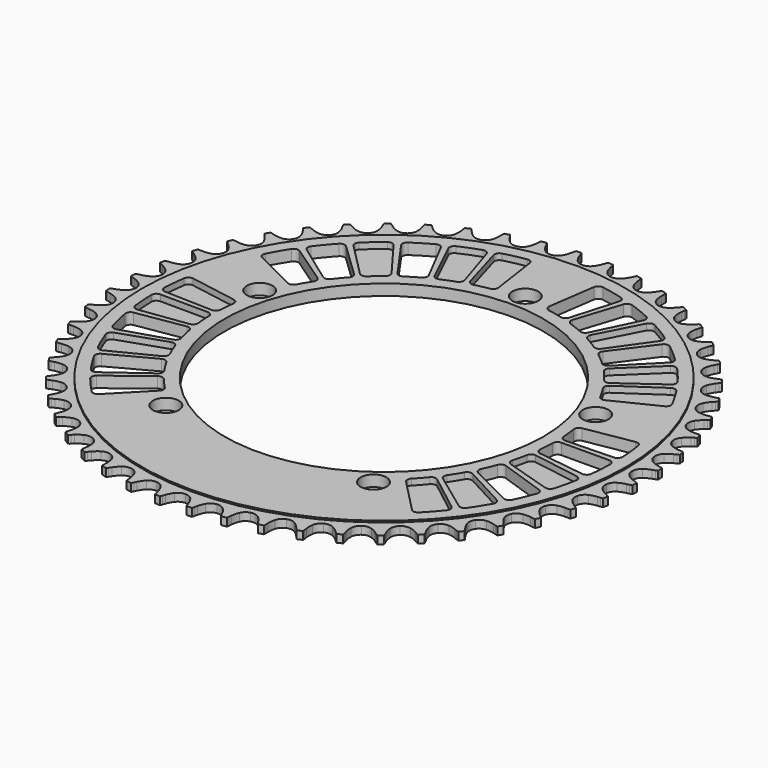
from build123d import *

# Parameters (mm, degrees)
F0_R     = 98.59071
F1_DEPTH = 1.6
F0_R_2   = 5.25
F0_R_3   = 64.999997
F2_DEPTH = 2.25
F4_DEPTH = 4.5
F5_DEPTH = 2.5


with BuildPart() as f1:
    # F0 (on Top) → F1 (new body, symmetric)
    with BuildSketch(Plane.XY):
        with BuildLine():
            ThreePointArc((0, 101.090736), (-1.818052, 101.525921), (-3.242005, 102.737141))
            ThreePointArc((-3.242005, 102.737141), (-4.059635, 104.032944), (-4.677869, 105.434875))
            Line((-4.677869, 105.434875), (-5.064369, 106.542837))
            ThreePointArc((-5.064369, 106.542837), (-5.237896, 106.986478), (-5.443927, 107.415989))
            ThreePointArc((-5.443927, 107.415989), (-6.49394, 107.357625), (-7.543332, 107.288998))
            ThreePointArc((-7.543332, 107.288998), (-7.696089, 106.837784), (-7.814875, 106.376462))
            Line((-7.814875, 106.376462), (-8.065008, 105.229991))
            ThreePointArc((-8.065008, 105.229991), (-8.50975, 103.763762), (-9.165226, 102.378852))
            ThreePointArc((-9.165226, 102.378852), (-10.432801, 101.004825), (-12.185142, 100.353671))
            ThreePointArc((-12.185142, 100.353671), (-14.042394, 100.566541), (-15.601962, 101.597291))
            ThreePointArc((-15.601962, 101.597291), (-16.569821, 102.785092), (-17.352532, 104.102281))
            Line((-17.352532, 104.102281), (-17.869764, 105.155578))
            ThreePointArc((-17.869764, 105.155578), (-18.095501, 105.575067), (-18.351801, 105.976612))
            ThreePointArc((-18.351801, 105.976612), (-19.387124, 105.792109), (-20.420593, 105.597492))
            ThreePointArc((-20.420593, 105.597492), (-20.517847, 105.131156), (-20.580162, 104.658879))
            Line((-20.580162, 104.658879), (-20.690279, 103.490616))
            ThreePointArc((-20.690279, 103.490616), (-20.955044, 101.98147), (-21.438808, 100.527649))
            ThreePointArc((-21.438808, 100.527649), (-22.531521, 99.010851), (-24.192597, 98.153223))
            ThreePointArc((-24.192597, 98.153223), (-26.061966, 98.140674), (-27.734406, 98.975924))
            ThreePointArc((-27.734406, 98.975924), (-28.838382, 100.038402), (-29.774155, 101.251642))
            Line((-29.774155, 101.251642), (-30.414578, 102.234913))
            ThreePointArc((-30.414578, 102.234913), (-30.689233, 102.624134), (-30.992065, 102.991858))
            ThreePointArc((-30.992065, 102.991858), (-31.997599, 102.683906), (-33.000075, 102.366137))
            ThreePointArc((-33.000075, 102.366137), (-33.04041, 101.891478), (-33.045343, 101.415133))
            Line((-33.045343, 101.415133), (-33.013839, 100.242116))
            ThreePointArc((-33.013839, 100.242116), (-33.094766, 98.712059), (-33.399765, 97.210527))
            ThreePointArc((-33.399765, 97.210527), (-34.30168, 95.573075), (-35.847269, 94.52148))
            ThreePointArc((-35.847269, 94.52148), (-37.701496, 94.283695), (-39.46242, 94.911265))
            ThreePointArc((-39.46242, 94.911265), (-40.686415, 95.832926), (-41.761605, 96.924525))
            Line((-41.761605, 96.924525), (-42.515878, 97.823433))
            ThreePointArc((-42.515878, 97.823433), (-42.835446, 98.176711), (-43.180394, 98.505251))
            ThreePointArc((-43.180394, 98.505251), (-44.141478, 98.078341), (-45.098341, 97.642053))
            ThreePointArc((-45.098341, 97.642053), (-45.081168, 97.165993), (-45.028649, 96.692527))
            Line((-45.028649, 96.692527), (-44.855982, 95.531859))
            ThreePointArc((-44.855982, 95.531859), (-44.751892, 94.003204), (-44.873677, 92.475856))
            ThreePointArc((-44.873677, 92.475856), (-45.571643, 90.74163), (-46.979208, 89.511402))
            ThreePointArc((-46.979208, 89.511402), (-48.791253, 89.051848), (-50.614983, 89.462586))
            ThreePointArc((-50.614983, 89.462586), (-51.941148, 90.229991), (-53.140076, 91.184031))
            Line((-53.140076, 91.184031), (-53.997202, 91.985467))
            ThreePointArc((-53.997202, 91.985467), (-54.357022, 92.297649), (-54.739057, 92.582216))
            ThreePointArc((-54.739057, 92.582216), (-55.641674, 92.042572), (-56.538973, 91.494128))
            ThreePointArc((-56.538973, 91.494128), (-56.464542, 91.023609), (-56.355336, 90.559926))
            Line((-56.355336, 90.559926), (-56.044025, 89.428533))
            ThreePointArc((-56.044025, 89.428533), (-55.756434, 87.92357), (-55.69323, 86.392679))
            ThreePointArc((-55.69323, 86.392679), (-56.177069, 84.586966), (-57.426084, 83.196045))
            ThreePointArc((-57.426084, 83.196045), (-59.169524, 82.521424), (-61.029466, 82.709341))
            ThreePointArc((-61.029466, 82.709341), (-62.438462, 83.311299), (-63.743646, 84.113868))
            Line((-63.743646, 84.113868), (-64.691124, 84.806146))
            ThreePointArc((-64.691124, 84.806146), (-65.08595, 85.072681), (-65.4995, 85.309123))
            ThreePointArc((-65.4995, 85.309123), (-66.33049, 84.664615), (-67.155138, 84.012013))
            ThreePointArc((-67.155138, 84.012013), (-67.024536, 83.553896), (-66.860234, 83.106757))
            Line((-66.860234, 83.106757), (-66.414819, 82.021138))
            ThreePointArc((-66.414819, 82.021138), (-65.947922, 80.561813), (-65.70065, 79.049702))
            ThreePointArc((-65.70065, 79.049702), (-65.963308, 77.198835), (-67.035558, 75.667503))
            ThreePointArc((-67.035558, 75.667503), (-68.68497, 74.787652), (-70.554002, 74.750007))
            ThreePointArc((-70.554002, 74.750007), (-72.025283, 75.177741), (-73.417689, 75.817136))
            Line((-73.417689, 75.817136), (-74.441704, 76.390161))
            ThreePointArc((-74.441704, 76.390161), (-74.865779, 76.607161), (-75.304814, 76.792031))
            ThreePointArc((-75.304814, 76.792031), (-76.052058, 76.052058), (-76.792031, 75.304814))
            ThreePointArc((-76.792031, 75.304814), (-76.607161, 74.865779), (-76.390161, 74.441704))
            Line((-76.390161, 74.441704), (-75.817136, 73.417689))
            ThreePointArc((-75.817136, 73.417689), (-75.177741, 72.025283), (-74.750007, 70.554002))
            ThreePointArc((-74.750007, 70.554002), (-74.787652, 68.68497), (-75.667503, 67.035558))
            ThreePointArc((-75.667503, 67.035558), (-77.198835, 65.963308), (-79.049702, 65.70065))
            ThreePointArc((-79.049702, 65.70065), (-80.561813, 65.947922), (-82.021138, 66.414819))
            Line((-82.021138, 66.414819), (-83.106757, 66.860234))
            ThreePointArc((-83.106757, 66.860234), (-83.553896, 67.024536), (-84.012013, 67.155138))
            ThreePointArc((-84.012013, 67.155138), (-84.664615, 66.33049), (-85.309123, 65.4995))
            ThreePointArc((-85.309123, 65.4995), (-85.072681, 65.08595), (-84.806146, 64.691124))
            Line((-84.806146, 64.691124), (-84.113868, 63.743646))
            ThreePointArc((-84.113868, 63.743646), (-83.311299, 62.438462), (-82.709341, 61.029466))
            ThreePointArc((-82.709341, 61.029466), (-82.521424, 59.169524), (-83.196045, 57.426084))
            ThreePointArc((-83.196045, 57.426084), (-84.586966, 56.177069), (-86.392679, 55.69323))
            ThreePointArc((-86.392679, 55.69323), (-87.92357, 55.756434), (-89.428533, 56.044025))
            Line((-89.428533, 56.044025), (-90.559926, 56.355336))
            ThreePointArc((-90.559926, 56.355336), (-91.023609, 56.464542), (-91.494128, 56.538973))
            ThreePointArc((-91.494128, 56.538973), (-92.042572, 55.641674), (-92.582216, 54.739057))
            ThreePointArc((-92.582216, 54.739057), (-92.297649, 54.357022), (-91.985467, 53.997202))
            Line((-91.985467, 53.997202), (-91.184031, 53.140076))
            ThreePointArc((-91.184031, 53.140076), (-90.229991, 51.941148), (-89.462586, 50.614983))
            ThreePointArc((-89.462586, 50.614983), (-89.051848, 48.791253), (-89.511402, 46.979208))
            ThreePointArc((-89.511402, 46.979208), (-90.74163, 45.571643), (-92.475856, 44.873677))
            ThreePointArc((-92.475856, 44.873677), (-94.003204, 44.751892), (-95.531859, 44.855982))
            Line((-95.531859, 44.855982), (-96.692527, 45.028649))
            ThreePointArc((-96.692527, 45.028649), (-97.165993, 45.081168), (-97.642053, 45.098341))
            ThreePointArc((-97.642053, 45.098341), (-98.078341, 44.141478), (-98.505251, 43.180394))
            ThreePointArc((-98.505251, 43.180394), (-98.176711, 42.835446), (-97.823433, 42.515878))
            Line((-97.823433, 42.515878), (-96.924525, 41.761605))
            ThreePointArc((-96.924525, 41.761605), (-95.832926, 40.686415), (-94.911265, 39.46242))
            ThreePointArc((-94.911265, 39.46242), (-94.283695, 37.701496), (-94.52148, 35.847269))
            ThreePointArc((-94.52148, 35.847269), (-95.573075, 34.30168), (-97.210527, 33.399765))
            ThreePointArc((-97.210527, 33.399765), (-98.712059, 33.094766), (-100.242116, 33.013839))
            Line((-100.242116, 33.013839), (-101.415133, 33.045343))
            ThreePointArc((-101.415133, 33.045343), (-101.891478, 33.04041), (-102.366137, 33.000075))
            ThreePointArc((-102.366137, 33.000075), (-102.683906, 31.997599), (-102.991858, 30.992065))
            ThreePointArc((-102.991858, 30.992065), (-102.624134, 30.689233), (-102.234913, 30.414578))
            Line((-102.234913, 30.414578), (-101.251642, 29.774155))
            ThreePointArc((-101.251642, 29.774155), (-100.038402, 28.838382), (-98.975924, 27.734406))
            ThreePointArc((-98.975924, 27.734406), (-98.140674, 26.061966), (-98.153223, 24.192597))
            ThreePointArc((-98.153223, 24.192597), (-99.010851, 22.531521), (-100.527649, 21.438808))
            ThreePointArc((-100.527649, 21.438808), (-101.98147, 20.955044), (-103.490616, 20.690279))
            Line((-103.490616, 20.690279), (-104.658879, 20.580162))
            ThreePointArc((-104.658879, 20.580162), (-105.131156, 20.517847), (-105.597492, 20.420593))
            ThreePointArc((-105.597492, 20.420593), (-105.792109, 19.387124), (-105.976612, 18.351801))
            ThreePointArc((-105.976612, 18.351801), (-105.575067, 18.095501), (-105.155578, 17.869764))
            Line((-105.155578, 17.869764), (-104.102281, 17.352532))
            ThreePointArc((-104.102281, 17.352532), (-102.785092, 16.569821), (-101.597291, 15.601962))
            ThreePointArc((-101.597291, 15.601962), (-100.566541, 14.042394), (-100.353671, 12.185142))
            ThreePointArc((-100.353671, 12.185142), (-101.004825, 10.432801), (-102.378852, 9.165226))
            ThreePointArc((-102.378852, 9.165226), (-103.763762, 8.50975), (-105.229991, 8.065008))
            Line((-105.229991, 8.065008), (-106.376462, 7.814875))
            ThreePointArc((-106.376462, 7.814875), (-106.837784, 7.696089), (-107.288998, 7.543332))
            ThreePointArc((-107.288998, 7.543332), (-107.357625, 6.49394), (-107.415989, 5.443927))
            ThreePointArc((-107.415989, 5.443927), (-106.986478, 5.237896), (-106.542837, 5.064369))
            Line((-106.542837, 5.064369), (-105.434875, 4.677869))
            ThreePointArc((-105.434875, 4.677869), (-104.032944, 4.059635), (-102.737141, 3.242005))
            ThreePointArc((-102.737141, 3.242005), (-101.525921, 1.818052), (-101.090736, 0))
            ThreePointArc((-101.090736, 0), (-101.525921, -1.818052), (-102.737141, -3.242005))
            ThreePointArc((-102.737141, -3.242005), (-104.032944, -4.059635), (-105.434875, -4.677869))
            Line((-105.434875, -4.677869), (-106.542837, -5.064369))
            ThreePointArc((-106.542837, -5.064369), (-106.986478, -5.237896), (-107.415989, -5.443927))
            ThreePointArc((-107.415989, -5.443927), (-107.357625, -6.49394), (-107.288998, -7.543332))
            ThreePointArc((-107.288998, -7.543332), (-106.837784, -7.696089), (-106.376462, -7.814875))
            Line((-106.376462, -7.814875), (-105.229991, -8.065008))
            ThreePointArc((-105.229991, -8.065008), (-103.763762, -8.50975), (-102.378852, -9.165226))
            ThreePointArc((-102.378852, -9.165226), (-101.004825, -10.432801), (-100.353671, -12.185142))
            ThreePointArc((-100.353671, -12.185142), (-100.566541, -14.042394), (-101.597291, -15.601962))
            ThreePointArc((-101.597291, -15.601962), (-102.785092, -16.569821), (-104.102281, -17.352532))
            Line((-104.102281, -17.352532), (-105.155578, -17.869764))
            ThreePointArc((-105.155578, -17.869764), (-105.575067, -18.095501), (-105.976612, -18.351801))
            ThreePointArc((-105.976612, -18.351801), (-105.792109, -19.387124), (-105.597492, -20.420593))
            ThreePointArc((-105.597492, -20.420593), (-105.131156, -20.517847), (-104.658879, -20.580162))
            Line((-104.658879, -20.580162), (-103.490616, -20.690279))
            ThreePointArc((-103.490616, -20.690279), (-101.98147, -20.955044), (-100.527649, -21.438808))
            ThreePointArc((-100.527649, -21.438808), (-99.010851, -22.531521), (-98.153223, -24.192597))
            ThreePointArc((-98.153223, -24.192597), (-98.140674, -26.061966), (-98.975924, -27.734406))
            ThreePointArc((-98.975924, -27.734406), (-100.038402, -28.838382), (-101.251642, -29.774155))
            Line((-101.251642, -29.774155), (-102.234913, -30.414578))
            ThreePointArc((-102.234913, -30.414578), (-102.624134, -30.689233), (-102.991858, -30.992065))
            ThreePointArc((-102.991858, -30.992065), (-102.683906, -31.997599), (-102.366137, -33.000075))
            ThreePointArc((-102.366137, -33.000075), (-101.891478, -33.04041), (-101.415133, -33.045343))
            Line((-101.415133, -33.045343), (-100.242116, -33.013839))
            ThreePointArc((-100.242116, -33.013839), (-98.712059, -33.094766), (-97.210527, -33.399765))
            ThreePointArc((-97.210527, -33.399765), (-95.573075, -34.30168), (-94.52148, -35.847269))
            ThreePointArc((-94.52148, -35.847269), (-94.283695, -37.701496), (-94.911265, -39.46242))
            ThreePointArc((-94.911265, -39.46242), (-95.832926, -40.686415), (-96.924525, -41.761605))
            Line((-96.924525, -41.761605), (-97.823433, -42.515878))
            ThreePointArc((-97.823433, -42.515878), (-98.176711, -42.835446), (-98.505251, -43.180394))
            ThreePointArc((-98.505251, -43.180394), (-98.078341, -44.141478), (-97.642053, -45.098341))
            ThreePointArc((-97.642053, -45.098341), (-97.165993, -45.081168), (-96.692527, -45.028649))
            Line((-96.692527, -45.028649), (-95.531859, -44.855982))
            ThreePointArc((-95.531859, -44.855982), (-94.003204, -44.751892), (-92.475856, -44.873677))
            ThreePointArc((-92.475856, -44.873677), (-90.74163, -45.571643), (-89.511402, -46.979208))
            ThreePointArc((-89.511402, -46.979208), (-89.051848, -48.791253), (-89.462586, -50.614983))
            ThreePointArc((-89.462586, -50.614983), (-90.229991, -51.941148), (-91.184031, -53.140076))
            Line((-91.184031, -53.140076), (-91.985467, -53.997202))
            ThreePointArc((-91.985467, -53.997202), (-92.297649, -54.357022), (-92.582216, -54.739057))
            ThreePointArc((-92.582216, -54.739057), (-92.042572, -55.641674), (-91.494128, -56.538973))
            ThreePointArc((-91.494128, -56.538973), (-91.023609, -56.464542), (-90.559926, -56.355336))
            Line((-90.559926, -56.355336), (-89.428533, -56.044025))
            ThreePointArc((-89.428533, -56.044025), (-87.92357, -55.756434), (-86.392679, -55.69323))
            ThreePointArc((-86.392679, -55.69323), (-84.586966, -56.177069), (-83.196045, -57.426084))
            ThreePointArc((-83.196045, -57.426084), (-82.521424, -59.169524), (-82.709341, -61.029466))
            ThreePointArc((-82.709341, -61.029466), (-83.311299, -62.438462), (-84.113868, -63.743646))
            Line((-84.113868, -63.743646), (-84.806146, -64.691124))
            ThreePointArc((-84.806146, -64.691124), (-85.072681, -65.08595), (-85.309123, -65.4995))
            ThreePointArc((-85.309123, -65.4995), (-84.664615, -66.33049), (-84.012013, -67.155138))
            ThreePointArc((-84.012013, -67.155138), (-83.553896, -67.024536), (-83.106757, -66.860234))
            Line((-83.106757, -66.860234), (-82.021138, -66.414819))
            ThreePointArc((-82.021138, -66.414819), (-80.561813, -65.947922), (-79.049702, -65.70065))
            ThreePointArc((-79.049702, -65.70065), (-77.198835, -65.963308), (-75.667503, -67.035558))
            ThreePointArc((-75.667503, -67.035558), (-74.787652, -68.68497), (-74.750007, -70.554002))
            ThreePointArc((-74.750007, -70.554002), (-75.177741, -72.025283), (-75.817136, -73.417689))
            Line((-75.817136, -73.417689), (-76.390161, -74.441704))
            ThreePointArc((-76.390161, -74.441704), (-76.607161, -74.865779), (-76.792031, -75.304814))
            ThreePointArc((-76.792031, -75.304814), (-76.052058, -76.052058), (-75.304814, -76.792031))
            ThreePointArc((-75.304814, -76.792031), (-74.865779, -76.607161), (-74.441704, -76.390161))
            Line((-74.441704, -76.390161), (-73.417689, -75.817136))
            ThreePointArc((-73.417689, -75.817136), (-72.025283, -75.177741), (-70.554002, -74.750007))
            ThreePointArc((-70.554002, -74.750007), (-68.68497, -74.787652), (-67.035558, -75.667503))
            ThreePointArc((-67.035558, -75.667503), (-65.963308, -77.198835), (-65.70065, -79.049702))
            ThreePointArc((-65.70065, -79.049702), (-65.947922, -80.561813), (-66.414819, -82.021138))
            Line((-66.414819, -82.021138), (-66.860234, -83.106757))
            ThreePointArc((-66.860234, -83.106757), (-67.024536, -83.553896), (-67.155138, -84.012013))
            ThreePointArc((-67.155138, -84.012013), (-66.33049, -84.664615), (-65.4995, -85.309123))
            ThreePointArc((-65.4995, -85.309123), (-65.08595, -85.072681), (-64.691124, -84.806146))
            Line((-64.691124, -84.806146), (-63.743646, -84.113868))
            ThreePointArc((-63.743646, -84.113868), (-62.438462, -83.311299), (-61.029466, -82.709341))
            ThreePointArc((-61.029466, -82.709341), (-59.169524, -82.521424), (-57.426084, -83.196045))
            ThreePointArc((-57.426084, -83.196045), (-56.177069, -84.586966), (-55.69323, -86.392679))
            ThreePointArc((-55.69323, -86.392679), (-55.756434, -87.92357), (-56.044025, -89.428533))
            Line((-56.044025, -89.428533), (-56.355336, -90.559926))
            ThreePointArc((-56.355336, -90.559926), (-56.464542, -91.023609), (-56.538973, -91.494128))
            ThreePointArc((-56.538973, -91.494128), (-55.641674, -92.042572), (-54.739057, -92.582216))
            ThreePointArc((-54.739057, -92.582216), (-54.357022, -92.297649), (-53.997202, -91.985467))
            Line((-53.997202, -91.985467), (-53.140076, -91.184031))
            ThreePointArc((-53.140076, -91.184031), (-51.941148, -90.229991), (-50.614983, -89.462586))
            ThreePointArc((-50.614983, -89.462586), (-48.791253, -89.051848), (-46.979208, -89.511402))
            ThreePointArc((-46.979208, -89.511402), (-45.571643, -90.74163), (-44.873677, -92.475856))
            ThreePointArc((-44.873677, -92.475856), (-44.751892, -94.003204), (-44.855982, -95.531859))
            Line((-44.855982, -95.531859), (-45.028649, -96.692527))
            ThreePointArc((-45.028649, -96.692527), (-45.081168, -97.165993), (-45.098341, -97.642053))
            ThreePointArc((-45.098341, -97.642053), (-44.141478, -98.078341), (-43.180394, -98.505251))
            ThreePointArc((-43.180394, -98.505251), (-42.835446, -98.176711), (-42.515878, -97.823433))
            Line((-42.515878, -97.823433), (-41.761605, -96.924525))
            ThreePointArc((-41.761605, -96.924525), (-40.686415, -95.832926), (-39.46242, -94.911265))
            ThreePointArc((-39.46242, -94.911265), (-37.701496, -94.283695), (-35.847269, -94.52148))
            ThreePointArc((-35.847269, -94.52148), (-34.30168, -95.573075), (-33.399765, -97.210527))
            ThreePointArc((-33.399765, -97.210527), (-33.094766, -98.712059), (-33.013839, -100.242116))
            Line((-33.013839, -100.242116), (-33.045343, -101.415133))
            ThreePointArc((-33.045343, -101.415133), (-33.04041, -101.891478), (-33.000075, -102.366137))
            ThreePointArc((-33.000075, -102.366137), (-31.997599, -102.683906), (-30.992065, -102.991858))
            ThreePointArc((-30.992065, -102.991858), (-30.689233, -102.624134), (-30.414578, -102.234913))
            Line((-30.414578, -102.234913), (-29.774155, -101.251642))
            ThreePointArc((-29.774155, -101.251642), (-28.838382, -100.038402), (-27.734406, -98.975924))
            ThreePointArc((-27.734406, -98.975924), (-26.061966, -98.140674), (-24.192597, -98.153223))
            ThreePointArc((-24.192597, -98.153223), (-22.531521, -99.010851), (-21.438808, -100.527649))
            ThreePointArc((-21.438808, -100.527649), (-20.955044, -101.98147), (-20.690279, -103.490616))
            Line((-20.690279, -103.490616), (-20.580162, -104.658879))
            ThreePointArc((-20.580162, -104.658879), (-20.517847, -105.131156), (-20.420593, -105.597492))
            ThreePointArc((-20.420593, -105.597492), (-19.387124, -105.792109), (-18.351801, -105.976612))
            ThreePointArc((-18.351801, -105.976612), (-18.095501, -105.575067), (-17.869764, -105.155578))
            Line((-17.869764, -105.155578), (-17.352532, -104.102281))
            ThreePointArc((-17.352532, -104.102281), (-16.569821, -102.785092), (-15.601962, -101.597291))
            ThreePointArc((-15.601962, -101.597291), (-14.042394, -100.566541), (-12.185142, -100.353671))
            ThreePointArc((-12.185142, -100.353671), (-10.432801, -101.004825), (-9.165226, -102.378852))
            ThreePointArc((-9.165226, -102.378852), (-8.50975, -103.763762), (-8.065008, -105.229991))
            Line((-8.065008, -105.229991), (-7.814875, -106.376462))
            ThreePointArc((-7.814875, -106.376462), (-7.696089, -106.837784), (-7.543332, -107.288998))
            ThreePointArc((-7.543332, -107.288998), (-6.49394, -107.357625), (-5.443927, -107.415989))
            ThreePointArc((-5.443927, -107.415989), (-5.237896, -106.986478), (-5.064369, -106.542837))
            Line((-5.064369, -106.542837), (-4.677869, -105.434875))
            ThreePointArc((-4.677869, -105.434875), (-4.059635, -104.032944), (-3.242005, -102.737141))
            ThreePointArc((-3.242005, -102.737141), (-1.818052, -101.525921), (0, -101.090736))
            ThreePointArc((0, -101.090736), (1.818052, -101.525921), (3.242005, -102.737141))
            ThreePointArc((3.242005, -102.737141), (4.059635, -104.032944), (4.677869, -105.434875))
            Line((4.677869, -105.434875), (5.064369, -106.542837))
            ThreePointArc((5.064369, -106.542837), (5.237896, -106.986478), (5.443927, -107.415989))
            ThreePointArc((5.443927, -107.415989), (6.49394, -107.357625), (7.543332, -107.288998))
            ThreePointArc((7.543332, -107.288998), (7.696089, -106.837784), (7.814875, -106.376462))
            Line((7.814875, -106.376462), (8.065008, -105.229991))
            ThreePointArc((8.065008, -105.229991), (8.50975, -103.763762), (9.165226, -102.378852))
            ThreePointArc((9.165226, -102.378852), (10.432801, -101.004825), (12.185142, -100.353671))
            ThreePointArc((12.185142, -100.353671), (14.042394, -100.566541), (15.601962, -101.597291))
            ThreePointArc((15.601962, -101.597291), (16.569821, -102.785092), (17.352532, -104.102281))
            Line((17.352532, -104.102281), (17.869764, -105.155578))
            ThreePointArc((17.869764, -105.155578), (18.095501, -105.575067), (18.351801, -105.976612))
            ThreePointArc((18.351801, -105.976612), (19.387124, -105.792109), (20.420593, -105.597492))
            ThreePointArc((20.420593, -105.597492), (20.517847, -105.131156), (20.580162, -104.658879))
            Line((20.580162, -104.658879), (20.690279, -103.490616))
            ThreePointArc((20.690279, -103.490616), (20.955044, -101.98147), (21.438808, -100.527649))
            ThreePointArc((21.438808, -100.527649), (22.531521, -99.010851), (24.192597, -98.153223))
            ThreePointArc((24.192597, -98.153223), (26.061966, -98.140674), (27.734406, -98.975924))
            ThreePointArc((27.734406, -98.975924), (28.838382, -100.038402), (29.774155, -101.251642))
            Line((29.774155, -101.251642), (30.414578, -102.234913))
            ThreePointArc((30.414578, -102.234913), (30.689233, -102.624134), (30.992065, -102.991858))
            ThreePointArc((30.992065, -102.991858), (31.997599, -102.683906), (33.000075, -102.366137))
            ThreePointArc((33.000075, -102.366137), (33.04041, -101.891478), (33.045343, -101.415133))
            Line((33.045343, -101.415133), (33.013839, -100.242116))
            ThreePointArc((33.013839, -100.242116), (33.094766, -98.712059), (33.399765, -97.210527))
            ThreePointArc((33.399765, -97.210527), (34.30168, -95.573075), (35.847269, -94.52148))
            ThreePointArc((35.847269, -94.52148), (37.701496, -94.283695), (39.46242, -94.911265))
            ThreePointArc((39.46242, -94.911265), (40.686415, -95.832926), (41.761605, -96.924525))
            Line((41.761605, -96.924525), (42.515878, -97.823433))
            ThreePointArc((42.515878, -97.823433), (42.835446, -98.176711), (43.180394, -98.505251))
            ThreePointArc((43.180394, -98.505251), (44.141478, -98.078341), (45.098341, -97.642053))
            ThreePointArc((45.098341, -97.642053), (45.081168, -97.165993), (45.028649, -96.692527))
            Line((45.028649, -96.692527), (44.855982, -95.531859))
            ThreePointArc((44.855982, -95.531859), (44.751892, -94.003204), (44.873677, -92.475856))
            ThreePointArc((44.873677, -92.475856), (45.571643, -90.74163), (46.979208, -89.511402))
            ThreePointArc((46.979208, -89.511402), (48.791253, -89.051848), (50.614983, -89.462586))
            ThreePointArc((50.614983, -89.462586), (51.941148, -90.229991), (53.140076, -91.184031))
            Line((53.140076, -91.184031), (53.997202, -91.985467))
            ThreePointArc((53.997202, -91.985467), (54.357022, -92.297649), (54.739057, -92.582216))
            ThreePointArc((54.739057, -92.582216), (55.641674, -92.042572), (56.538973, -91.494128))
            ThreePointArc((56.538973, -91.494128), (56.464542, -91.023609), (56.355336, -90.559926))
            Line((56.355336, -90.559926), (56.044025, -89.428533))
            ThreePointArc((56.044025, -89.428533), (55.756434, -87.92357), (55.69323, -86.392679))
            ThreePointArc((55.69323, -86.392679), (56.177069, -84.586966), (57.426084, -83.196045))
            ThreePointArc((57.426084, -83.196045), (59.169524, -82.521424), (61.029466, -82.709341))
            ThreePointArc((61.029466, -82.709341), (62.438462, -83.311299), (63.743646, -84.113868))
            Line((63.743646, -84.113868), (64.691124, -84.806146))
            ThreePointArc((64.691124, -84.806146), (65.08595, -85.072681), (65.4995, -85.309123))
            ThreePointArc((65.4995, -85.309123), (66.33049, -84.664615), (67.155138, -84.012013))
            ThreePointArc((67.155138, -84.012013), (67.024536, -83.553896), (66.860234, -83.106757))
            Line((66.860234, -83.106757), (66.414819, -82.021138))
            ThreePointArc((66.414819, -82.021138), (65.947922, -80.561813), (65.70065, -79.049702))
            ThreePointArc((65.70065, -79.049702), (65.963308, -77.198835), (67.035558, -75.667503))
            ThreePointArc((67.035558, -75.667503), (68.68497, -74.787652), (70.554002, -74.750007))
            ThreePointArc((70.554002, -74.750007), (72.025283, -75.177741), (73.417689, -75.817136))
            Line((73.417689, -75.817136), (74.441704, -76.390161))
            ThreePointArc((74.441704, -76.390161), (74.865779, -76.607161), (75.304814, -76.792031))
            ThreePointArc((75.304814, -76.792031), (76.052058, -76.052058), (76.792031, -75.304814))
            ThreePointArc((76.792031, -75.304814), (76.607161, -74.865779), (76.390161, -74.441704))
            Line((76.390161, -74.441704), (75.817136, -73.417689))
            ThreePointArc((75.817136, -73.417689), (75.177741, -72.025283), (74.750007, -70.554002))
            ThreePointArc((74.750007, -70.554002), (74.787652, -68.68497), (75.667503, -67.035558))
            ThreePointArc((75.667503, -67.035558), (77.198835, -65.963308), (79.049702, -65.70065))
            ThreePointArc((79.049702, -65.70065), (80.561813, -65.947922), (82.021138, -66.414819))
            Line((82.021138, -66.414819), (83.106757, -66.860234))
            ThreePointArc((83.106757, -66.860234), (83.553896, -67.024536), (84.012013, -67.155138))
            ThreePointArc((84.012013, -67.155138), (84.664615, -66.33049), (85.309123, -65.4995))
            ThreePointArc((85.309123, -65.4995), (85.072681, -65.08595), (84.806146, -64.691124))
            Line((84.806146, -64.691124), (84.113868, -63.743646))
            ThreePointArc((84.113868, -63.743646), (83.311299, -62.438462), (82.709341, -61.029466))
            ThreePointArc((82.709341, -61.029466), (82.521424, -59.169524), (83.196045, -57.426084))
            ThreePointArc((83.196045, -57.426084), (84.586966, -56.177069), (86.392679, -55.69323))
            ThreePointArc((86.392679, -55.69323), (87.92357, -55.756434), (89.428533, -56.044025))
            Line((89.428533, -56.044025), (90.559926, -56.355336))
            ThreePointArc((90.559926, -56.355336), (91.023609, -56.464542), (91.494128, -56.538973))
            ThreePointArc((91.494128, -56.538973), (92.042572, -55.641674), (92.582216, -54.739057))
            ThreePointArc((92.582216, -54.739057), (92.297649, -54.357022), (91.985467, -53.997202))
            Line((91.985467, -53.997202), (91.184031, -53.140076))
            ThreePointArc((91.184031, -53.140076), (90.229991, -51.941148), (89.462586, -50.614983))
            ThreePointArc((89.462586, -50.614983), (89.051848, -48.791253), (89.511402, -46.979208))
            ThreePointArc((89.511402, -46.979208), (90.74163, -45.571643), (92.475856, -44.873677))
            ThreePointArc((92.475856, -44.873677), (94.003204, -44.751892), (95.531859, -44.855982))
            Line((95.531859, -44.855982), (96.692527, -45.028649))
            ThreePointArc((96.692527, -45.028649), (97.165993, -45.081168), (97.642053, -45.098341))
            ThreePointArc((97.642053, -45.098341), (98.078341, -44.141478), (98.505251, -43.180394))
            ThreePointArc((98.505251, -43.180394), (98.176711, -42.835446), (97.823433, -42.515878))
            Line((97.823433, -42.515878), (96.924525, -41.761605))
            ThreePointArc((96.924525, -41.761605), (95.832926, -40.686415), (94.911265, -39.46242))
            ThreePointArc((94.911265, -39.46242), (94.283695, -37.701496), (94.52148, -35.847269))
            ThreePointArc((94.52148, -35.847269), (95.573075, -34.30168), (97.210527, -33.399765))
            ThreePointArc((97.210527, -33.399765), (98.712059, -33.094766), (100.242116, -33.013839))
            Line((100.242116, -33.013839), (101.415133, -33.045343))
            ThreePointArc((101.415133, -33.045343), (101.891478, -33.04041), (102.366137, -33.000075))
            ThreePointArc((102.366137, -33.000075), (102.683906, -31.997599), (102.991858, -30.992065))
            ThreePointArc((102.991858, -30.992065), (102.624134, -30.689233), (102.234913, -30.414578))
            Line((102.234913, -30.414578), (101.251642, -29.774155))
            ThreePointArc((101.251642, -29.774155), (100.038402, -28.838382), (98.975924, -27.734406))
            ThreePointArc((98.975924, -27.734406), (98.140674, -26.061966), (98.153223, -24.192597))
            ThreePointArc((98.153223, -24.192597), (99.010851, -22.531521), (100.527649, -21.438808))
            ThreePointArc((100.527649, -21.438808), (101.98147, -20.955044), (103.490616, -20.690279))
            Line((103.490616, -20.690279), (104.658879, -20.580162))
            ThreePointArc((104.658879, -20.580162), (105.131156, -20.517847), (105.597492, -20.420593))
            ThreePointArc((105.597492, -20.420593), (105.792109, -19.387124), (105.976612, -18.351801))
            ThreePointArc((105.976612, -18.351801), (105.575067, -18.095501), (105.155578, -17.869764))
            Line((105.155578, -17.869764), (104.102281, -17.352532))
            ThreePointArc((104.102281, -17.352532), (102.785092, -16.569821), (101.597291, -15.601962))
            ThreePointArc((101.597291, -15.601962), (100.566541, -14.042394), (100.353671, -12.185142))
            ThreePointArc((100.353671, -12.185142), (101.004825, -10.432801), (102.378852, -9.165226))
            ThreePointArc((102.378852, -9.165226), (103.763762, -8.50975), (105.229991, -8.065008))
            Line((105.229991, -8.065008), (106.376462, -7.814875))
            ThreePointArc((106.376462, -7.814875), (106.837784, -7.696089), (107.288998, -7.543332))
            ThreePointArc((107.288998, -7.543332), (107.357625, -6.49394), (107.415989, -5.443927))
            ThreePointArc((107.415989, -5.443927), (106.986478, -5.237896), (106.542837, -5.064369))
            Line((106.542837, -5.064369), (105.434875, -4.677869))
            ThreePointArc((105.434875, -4.677869), (104.032944, -4.059635), (102.737141, -3.242005))
            ThreePointArc((102.737141, -3.242005), (101.525921, -1.818052), (101.090736, 0))
            ThreePointArc((101.090736, 0), (101.525921, 1.818052), (102.737141, 3.242005))
            ThreePointArc((102.737141, 3.242005), (104.032944, 4.059635), (105.434875, 4.677869))
            Line((105.434875, 4.677869), (106.542837, 5.064369))
            ThreePointArc((106.542837, 5.064369), (106.986478, 5.237896), (107.415989, 5.443927))
            ThreePointArc((107.415989, 5.443927), (107.357625, 6.49394), (107.288998, 7.543332))
            ThreePointArc((107.288998, 7.543332), (106.837784, 7.696089), (106.376462, 7.814875))
            Line((106.376462, 7.814875), (105.229991, 8.065008))
            ThreePointArc((105.229991, 8.065008), (103.763762, 8.50975), (102.378852, 9.165226))
            ThreePointArc((102.378852, 9.165226), (101.004825, 10.432801), (100.353671, 12.185142))
            ThreePointArc((100.353671, 12.185142), (100.566541, 14.042394), (101.597291, 15.601962))
            ThreePointArc((101.597291, 15.601962), (102.785092, 16.569821), (104.102281, 17.352532))
            Line((104.102281, 17.352532), (105.155578, 17.869764))
            ThreePointArc((105.155578, 17.869764), (105.575067, 18.095501), (105.976612, 18.351801))
            ThreePointArc((105.976612, 18.351801), (105.792109, 19.387124), (105.597492, 20.420593))
            ThreePointArc((105.597492, 20.420593), (105.131156, 20.517847), (104.658879, 20.580162))
            Line((104.658879, 20.580162), (103.490616, 20.690279))
            ThreePointArc((103.490616, 20.690279), (101.98147, 20.955044), (100.527649, 21.438808))
            ThreePointArc((100.527649, 21.438808), (99.010851, 22.531521), (98.153223, 24.192597))
            ThreePointArc((98.153223, 24.192597), (98.140674, 26.061966), (98.975924, 27.734406))
            ThreePointArc((98.975924, 27.734406), (100.038402, 28.838382), (101.251642, 29.774155))
            Line((101.251642, 29.774155), (102.234913, 30.414578))
            ThreePointArc((102.234913, 30.414578), (102.624134, 30.689233), (102.991858, 30.992065))
            ThreePointArc((102.991858, 30.992065), (102.683906, 31.997599), (102.366137, 33.000075))
            ThreePointArc((102.366137, 33.000075), (101.891478, 33.04041), (101.415133, 33.045343))
            Line((101.415133, 33.045343), (100.242116, 33.013839))
            ThreePointArc((100.242116, 33.013839), (98.712059, 33.094766), (97.210527, 33.399765))
            ThreePointArc((97.210527, 33.399765), (95.573075, 34.30168), (94.52148, 35.847269))
            ThreePointArc((94.52148, 35.847269), (94.283695, 37.701496), (94.911265, 39.46242))
            ThreePointArc((94.911265, 39.46242), (95.832926, 40.686415), (96.924525, 41.761605))
            Line((96.924525, 41.761605), (97.823433, 42.515878))
            ThreePointArc((97.823433, 42.515878), (98.176711, 42.835446), (98.505251, 43.180394))
            ThreePointArc((98.505251, 43.180394), (98.078341, 44.141478), (97.642053, 45.098341))
            ThreePointArc((97.642053, 45.098341), (97.165993, 45.081168), (96.692527, 45.028649))
            Line((96.692527, 45.028649), (95.531859, 44.855982))
            ThreePointArc((95.531859, 44.855982), (94.003204, 44.751892), (92.475856, 44.873677))
            ThreePointArc((92.475856, 44.873677), (90.74163, 45.571643), (89.511402, 46.979208))
            ThreePointArc((89.511402, 46.979208), (89.051848, 48.791253), (89.462586, 50.614983))
            ThreePointArc((89.462586, 50.614983), (90.229991, 51.941148), (91.184031, 53.140076))
            Line((91.184031, 53.140076), (91.985467, 53.997202))
            ThreePointArc((91.985467, 53.997202), (92.297649, 54.357022), (92.582216, 54.739057))
            ThreePointArc((92.582216, 54.739057), (92.042572, 55.641674), (91.494128, 56.538973))
            ThreePointArc((91.494128, 56.538973), (91.023609, 56.464542), (90.559926, 56.355336))
            Line((90.559926, 56.355336), (89.428533, 56.044025))
            ThreePointArc((89.428533, 56.044025), (87.92357, 55.756434), (86.392679, 55.69323))
            ThreePointArc((86.392679, 55.69323), (84.586966, 56.177069), (83.196045, 57.426084))
            ThreePointArc((83.196045, 57.426084), (82.521424, 59.169524), (82.709341, 61.029466))
            ThreePointArc((82.709341, 61.029466), (83.311299, 62.438462), (84.113868, 63.743646))
            Line((84.113868, 63.743646), (84.806146, 64.691124))
            ThreePointArc((84.806146, 64.691124), (85.072681, 65.08595), (85.309123, 65.4995))
            ThreePointArc((85.309123, 65.4995), (84.664615, 66.33049), (84.012013, 67.155138))
            ThreePointArc((84.012013, 67.155138), (83.553896, 67.024536), (83.106757, 66.860234))
            Line((83.106757, 66.860234), (82.021138, 66.414819))
            ThreePointArc((82.021138, 66.414819), (80.561813, 65.947922), (79.049702, 65.70065))
            ThreePointArc((79.049702, 65.70065), (77.198835, 65.963308), (75.667503, 67.035558))
            ThreePointArc((75.667503, 67.035558), (74.787652, 68.68497), (74.750007, 70.554002))
            ThreePointArc((74.750007, 70.554002), (75.177741, 72.025283), (75.817136, 73.417689))
            Line((75.817136, 73.417689), (76.390161, 74.441704))
            ThreePointArc((76.390161, 74.441704), (76.607161, 74.865779), (76.792031, 75.304814))
            ThreePointArc((76.792031, 75.304814), (76.052058, 76.052058), (75.304814, 76.792031))
            ThreePointArc((75.304814, 76.792031), (74.865779, 76.607161), (74.441704, 76.390161))
            Line((74.441704, 76.390161), (73.417689, 75.817136))
            ThreePointArc((73.417689, 75.817136), (72.025283, 75.177741), (70.554002, 74.750007))
            ThreePointArc((70.554002, 74.750007), (68.68497, 74.787652), (67.035558, 75.667503))
            ThreePointArc((67.035558, 75.667503), (65.963308, 77.198835), (65.70065, 79.049702))
            ThreePointArc((65.70065, 79.049702), (65.947922, 80.561813), (66.414819, 82.021138))
            Line((66.414819, 82.021138), (66.860234, 83.106757))
            ThreePointArc((66.860234, 83.106757), (67.024536, 83.553896), (67.155138, 84.012013))
            ThreePointArc((67.155138, 84.012013), (66.33049, 84.664615), (65.4995, 85.309123))
            ThreePointArc((65.4995, 85.309123), (65.08595, 85.072681), (64.691124, 84.806146))
            Line((64.691124, 84.806146), (63.743646, 84.113868))
            ThreePointArc((63.743646, 84.113868), (62.438462, 83.311299), (61.029466, 82.709341))
            ThreePointArc((61.029466, 82.709341), (59.169524, 82.521424), (57.426084, 83.196045))
            ThreePointArc((57.426084, 83.196045), (56.177069, 84.586966), (55.69323, 86.392679))
            ThreePointArc((55.69323, 86.392679), (55.756434, 87.92357), (56.044025, 89.428533))
            Line((56.044025, 89.428533), (56.355336, 90.559926))
            ThreePointArc((56.355336, 90.559926), (56.464542, 91.023609), (56.538973, 91.494128))
            ThreePointArc((56.538973, 91.494128), (55.641674, 92.042572), (54.739057, 92.582216))
            ThreePointArc((54.739057, 92.582216), (54.357022, 92.297649), (53.997202, 91.985467))
            Line((53.997202, 91.985467), (53.140076, 91.184031))
            ThreePointArc((53.140076, 91.184031), (51.941148, 90.229991), (50.614983, 89.462586))
            ThreePointArc((50.614983, 89.462586), (48.791253, 89.051848), (46.979208, 89.511402))
            ThreePointArc((46.979208, 89.511402), (45.571643, 90.74163), (44.873677, 92.475856))
            ThreePointArc((44.873677, 92.475856), (44.751892, 94.003204), (44.855982, 95.531859))
            Line((44.855982, 95.531859), (45.028649, 96.692527))
            ThreePointArc((45.028649, 96.692527), (45.081168, 97.165993), (45.098341, 97.642053))
            ThreePointArc((45.098341, 97.642053), (44.141478, 98.078341), (43.180394, 98.505251))
            ThreePointArc((43.180394, 98.505251), (42.835446, 98.176711), (42.515878, 97.823433))
            Line((42.515878, 97.823433), (41.761605, 96.924525))
            ThreePointArc((41.761605, 96.924525), (40.686415, 95.832926), (39.46242, 94.911265))
            ThreePointArc((39.46242, 94.911265), (37.701496, 94.283695), (35.847269, 94.52148))
            ThreePointArc((35.847269, 94.52148), (34.30168, 95.573075), (33.399765, 97.210527))
            ThreePointArc((33.399765, 97.210527), (33.094766, 98.712059), (33.013839, 100.242116))
            Line((33.013839, 100.242116), (33.045343, 101.415133))
            ThreePointArc((33.045343, 101.415133), (33.04041, 101.891478), (33.000075, 102.366137))
            ThreePointArc((33.000075, 102.366137), (31.997599, 102.683906), (30.992065, 102.991858))
            ThreePointArc((30.992065, 102.991858), (30.689233, 102.624134), (30.414578, 102.234913))
            Line((30.414578, 102.234913), (29.774155, 101.251642))
            ThreePointArc((29.774155, 101.251642), (28.838382, 100.038402), (27.734406, 98.975924))
            ThreePointArc((27.734406, 98.975924), (26.061966, 98.140674), (24.192597, 98.153223))
            ThreePointArc((24.192597, 98.153223), (22.531521, 99.010851), (21.438808, 100.527649))
            ThreePointArc((21.438808, 100.527649), (20.955044, 101.98147), (20.690279, 103.490616))
            Line((20.690279, 103.490616), (20.580162, 104.658879))
            ThreePointArc((20.580162, 104.658879), (20.517847, 105.131156), (20.420593, 105.597492))
            ThreePointArc((20.420593, 105.597492), (19.387124, 105.792109), (18.351801, 105.976612))
            ThreePointArc((18.351801, 105.976612), (18.095501, 105.575067), (17.869764, 105.155578))
            Line((17.869764, 105.155578), (17.352532, 104.102281))
            ThreePointArc((17.352532, 104.102281), (16.569821, 102.785092), (15.601962, 101.597291))
            ThreePointArc((15.601962, 101.597291), (14.042394, 100.566541), (12.185142, 100.353671))
            ThreePointArc((12.185142, 100.353671), (10.432801, 101.004825), (9.165226, 102.378852))
            ThreePointArc((9.165226, 102.378852), (8.50975, 103.763762), (8.065008, 105.229991))
            Line((8.065008, 105.229991), (7.814875, 106.376462))
            ThreePointArc((7.814875, 106.376462), (7.696089, 106.837784), (7.543332, 107.288998))
            ThreePointArc((7.543332, 107.288998), (6.49394, 107.357625), (5.443927, 107.415989))
            ThreePointArc((5.443927, 107.415989), (5.237896, 106.986478), (5.064369, 106.542837))
            Line((5.064369, 106.542837), (4.677869, 105.434875))
            ThreePointArc((4.677869, 105.434875), (4.059635, 104.032944), (3.242005, 102.737141))
            ThreePointArc((3.242005, 102.737141), (1.818052, 101.525921), (0, 101.090736))
        make_face()
        Circle(F0_R, mode=Mode.SUBTRACT)
    extrude(amount=F1_DEPTH, both=True)

    # F0 (on Top) → F2 (join, symmetric)
    with BuildSketch(Plane.XY):
        Circle(F0_R)
        with Locations((-42.320538, -58.249224)):
            Circle(F0_R_2, mode=Mode.SUBTRACT)
        with Locations((42.320538, -58.249224)):
            Circle(F0_R_2, mode=Mode.SUBTRACT)
        with Locations((-68.476069, 22.249224)):
            Circle(F0_R_2, mode=Mode.SUBTRACT)
        Circle(F0_R_3, mode=Mode.SUBTRACT)
        with Locations((68.476069, 22.249224)):
            Circle(F0_R_2, mode=Mode.SUBTRACT)
        with Locations((0, 72)):
            Circle(F0_R_2, mode=Mode.SUBTRACT)
    extrude(amount=F2_DEPTH, both=True)

    # F3 (on face) → F4 (cut)
    with BuildSketch(Plane.XY.offset(2.25)):
        with BuildLine():
            ThreePointArc((-72.338127, -56.012547), (-73.100314, -57.363241), (-72.667874, -58.852637))
            ThreePointArc((-72.667874, -58.852637), (-69.763071, -62.268505), (-66.697858, -65.541197))
            ThreePointArc((-66.697858, -65.541197), (-65.266966, -66.139402), (-63.838697, -65.534958))
            Line((-63.838697, -65.534958), (-50.276305, -51.612199))
            ThreePointArc((-50.276305, -51.612199), (-49.708938, -50.218177), (-50.274172, -48.823289))
            ThreePointArc((-50.274172, -48.823289), (-52.282737, -46.666063), (-54.198812, -44.426284))
            ThreePointArc((-54.198812, -44.426284), (-55.520777, -43.706832), (-56.970049, -44.112804))
            Line((-56.970049, -44.112804), (-72.338127, -56.012547))
        make_face()
        with BuildLine():
            ThreePointArc((-57.642859, -39.856075), (-59.267832, -37.396925), (-60.78796, -34.87162))
            ThreePointArc((-60.78796, -34.87162), (-61.973051, -33.943848), (-63.469452, -34.105053))
            Line((-63.469452, -34.105053), (-80.590789, -43.305134))
            ThreePointArc((-80.590789, -43.305134), (-81.565453, -44.511507), (-81.384765, -46.051849))
            ThreePointArc((-81.384765, -46.051849), (-79.08358, -49.900302), (-76.600555, -53.634017))
            ThreePointArc((-76.600555, -53.634017), (-75.288018, -54.460183), (-73.779576, -54.099762))
            Line((-73.779576, -54.099762), (-58.105266, -42.606385))
            ThreePointArc((-58.105266, -42.606385), (-57.3156, -41.325124), (-57.642859, -39.856075))
        make_face()
        with BuildLine():
            ThreePointArc((-68.829234, -13.181141), (-69.647707, -11.918087), (-71.115065, -11.583329))
            Line((-71.115065, -11.583329), (-90.298861, -14.708014))
            ThreePointArc((-90.298861, -14.708014), (-91.61318, -15.531343), (-91.943823, -17.046591))
            ThreePointArc((-91.943823, -17.046591), (-91.020943, -21.434567), (-89.888776, -25.773258))
            ThreePointArc((-89.888776, -25.773258), (-88.916721, -26.981734), (-87.373119, -27.132049))
            Line((-87.373119, -27.132049), (-68.81089, -21.367905))
            ThreePointArc((-68.81089, -21.367905), (-67.647109, -20.413538), (-67.478263, -18.91798))
            ThreePointArc((-67.478263, -18.91798), (-68.214084, -16.063769), (-68.829234, -13.181141))
        make_face()
        with BuildLine():
            ThreePointArc((-75.624808, 51.488818), (-77.144923, 51.796314), (-78.427792, 50.924791))
            ThreePointArc((-78.427792, 50.924791), (-80.778842, 47.106597), (-82.944154, 43.180089))
            ThreePointArc((-82.944154, 43.180089), (-83.070911, 41.634374), (-82.054691, 40.462793))
            Line((-82.054691, 40.462793), (-64.622351, 31.866561))
            ThreePointArc((-64.622351, 31.866561), (-63.121231, 31.75774), (-61.969281, 32.726353))
            ThreePointArc((-61.969281, 32.726353), (-60.538317, 35.303231), (-59.000261, 37.817657))
            ThreePointArc((-59.000261, 37.817657), (-58.724531, 39.297243), (-59.558483, 40.550131))
            Line((-59.558483, 40.550131), (-75.624808, 51.488818))
        make_face()
        with BuildLine():
            ThreePointArc((-55.718003, 42.505412), (-53.881357, 44.810773), (-51.949394, 47.036862))
            ThreePointArc((-51.949394, 47.036862), (-51.433244, 48.450648), (-52.048972, 49.823995))
            Line((-52.048972, 49.823995), (-66.089553, 63.264373))
            ThreePointArc((-66.089553, 63.264373), (-67.53807, 63.818543), (-68.947187, 63.170707))
            ThreePointArc((-68.947187, 63.170707), (-71.896178, 59.792913), (-74.679855, 56.277634))
            ThreePointArc((-74.679855, 56.277634), (-75.05999, 54.774038), (-74.251073, 53.4508))
            Line((-74.251073, 53.4508), (-58.476595, 42.095295))
            ThreePointArc((-58.476595, 42.095295), (-57.014023, 41.740209), (-55.718003, 42.505412))
        make_face()
        with BuildLine():
            ThreePointArc((-33.805413, 61.387295), (-32.857099, 62.556014), (-32.992164, 64.055001))
            Line((-32.992164, 64.055001), (-41.892035, 81.334294))
            ThreePointArc((-41.892035, 81.334294), (-43.081214, 82.329863), (-44.624476, 82.176085))
            ThreePointArc((-44.624476, 82.176085), (-48.512503, 79.942416), (-52.288984, 77.524931))
            ThreePointArc((-52.288984, 77.524931), (-53.137932, 76.227013), (-52.803891, 74.71251))
            Line((-52.803891, 74.71251), (-41.585819, 58.84))
            ThreePointArc((-41.585819, 58.84), (-40.318535, 58.028093), (-38.843998, 58.329665))
            ThreePointArc((-38.843998, 58.329665), (-36.356863, 59.911472), (-33.805413, 61.387295))
        make_face()
        with BuildLine():
            ThreePointArc((25.599425, 87.834386), (25.422129, 89.375123), (24.196833, 90.325888))
            ThreePointArc((24.196833, 90.325888), (19.839001, 91.381983), (15.435552, 92.22796))
            ThreePointArc((15.435552, 92.22796), (13.926319, 91.87086), (13.126109, 90.542339))
            Line((13.126109, 90.542339), (10.337496, 71.306817))
            ThreePointArc((10.337496, 71.306817), (10.697872, 69.84554), (11.975051, 69.049288))
            ThreePointArc((11.975051, 69.049288), (14.867999, 68.484659), (17.734646, 67.798881))
            ThreePointArc((17.734646, 67.798881), (19.227021, 67.993864), (20.160883, 69.174163))
            Line((20.160883, 69.174163), (25.599425, 87.834386))
        make_face()
        with BuildLine():
            ThreePointArc((23.20724, 66.125865), (25.967322, 65.091506), (28.681469, 63.942))
            ThreePointArc((28.681469, 63.942), (30.185559, 63.887995), (31.301418, 64.897975))
            Line((31.301418, 64.897975), (39.745199, 82.404667))
            ThreePointArc((39.745199, 82.404667), (39.82463, 83.953536), (38.77306, 85.093493))
            ThreePointArc((38.77306, 85.093493), (34.649299, 86.854355), (30.445867, 88.415508))
            ThreePointArc((30.445867, 88.415508), (28.898394, 88.312401), (27.889889, 87.134173))
            Line((27.889889, 87.134173), (21.964743, 68.622708))
            ThreePointArc((21.964743, 68.622708), (22.078996, 67.121992), (23.20724, 66.125865))
        make_face()
        with BuildLine():
            ThreePointArc((47.93634, 51.120576), (49.340903, 50.57983), (50.724786, 51.171496))
            Line((50.724786, 51.171496), (64.408159, 64.975372))
            ThreePointArc((64.408159, 64.975372), (64.987525, 66.413996), (64.36438, 67.834205))
            ThreePointArc((64.36438, 67.834205), (61.038567, 70.841697), (57.572406, 73.6863))
            ThreePointArc((57.572406, 73.6863), (56.075673, 74.092619), (54.73852, 73.30692))
            Line((54.73852, 73.30692), (43.10944, 57.733024))
            ThreePointArc((43.10944, 57.733024), (42.728884, 56.276872), (43.471352, 54.967695))
            ThreePointArc((43.471352, 54.967695), (45.744307, 53.091095), (47.93634, 51.120576))
        make_face()
        with BuildLine():
            Line((90.167073, 15.49545), (71.011275, 12.203476))
            ThreePointArc((71.011275, 12.203476), (69.73288, 11.409178), (69.370269, 9.948453))
            ThreePointArc((69.370269, 9.948453), (69.727246, 7.022616), (69.960875, 4.084356))
            ThreePointArc((69.960875, 4.084356), (70.607484, 2.725276), (72.018594, 2.201853))
            Line((72.018594, 2.201853), (91.446123, 2.795818))
            ThreePointArc((91.446123, 2.795818), (92.856663, 3.44055), (93.382257, 4.899678))
            ThreePointArc((93.382257, 4.899678), (93.040019, 9.370575), (92.48385, 13.819925))
            ThreePointArc((92.48385, 13.819925), (91.677849, 15.14494), (90.167073, 15.49545))
        make_face()
        with BuildLine():
            Line((91.487972, 0.40108), (72.051552, 0.315871))
            ThreePointArc((72.051552, 0.315871), (70.659593, -0.256537), (70.060866, -1.63738))
            ThreePointArc((70.060866, -1.63738), (69.930045, -4.58201), (69.675517, -7.518533))
            ThreePointArc((69.675517, -7.518533), (70.088945, -8.965696), (71.394312, -9.714841))
            Line((71.394312, -9.714841), (90.653437, -12.335488))
            ThreePointArc((90.653437, -12.335488), (92.151045, -11.932405), (92.910256, -10.580036))
            ThreePointArc((92.910256, -10.580036), (93.310622, -6.11397), (93.496435, -1.633845))
            ThreePointArc((93.496435, -1.633845), (92.920179, -0.193973), (91.487972, 0.40108))
        make_face()
        with BuildLine():
            Line((86.634156, -29.406342), (68.228919, -23.159029))
            ThreePointArc((68.228919, -23.159029), (66.726437, -23.247074), (65.710771, -24.357761))
            ThreePointArc((65.710771, -24.357761), (64.6284, -27.099371), (63.4317, -29.793042))
            ThreePointArc((63.4317, -29.793042), (63.351454, -31.29596), (64.341806, -32.429277))
            Line((64.341806, -32.429277), (81.698467, -41.177305))
            ThreePointArc((81.698467, -41.177305), (83.245713, -41.283756), (84.40385, -40.252241))
            ThreePointArc((84.40385, -40.252241), (86.236413, -36.159839), (87.870688, -31.984293))
            ThreePointArc((87.870688, -31.984293), (87.794604, -30.435256), (86.634156, -29.406342))
        make_face()
    extrude(amount=-F4_DEPTH, mode=Mode.SUBTRACT)

    # F3 (on face) → F5 (cut)
    with BuildSketch(Plane.XY.offset(2.25)):
        with BuildLine():
            ThreePointArc((-65.709767, -24.36047), (-66.725479, -23.249825), (-68.227964, -23.161841))
            Line((-68.227964, -23.161841), (-86.632944, -29.409913))
            ThreePointArc((-86.632944, -29.409913), (-87.793349, -30.438876), (-87.869369, -31.987915))
            ThreePointArc((-87.869369, -31.987915), (-86.234922, -36.163394), (-84.402191, -40.25572))
            ThreePointArc((-84.402191, -40.25572), (-83.244011, -41.287188), (-81.696769, -41.180674))
            Line((-81.696769, -41.180674), (-64.340469, -32.431929))
            ThreePointArc((-64.340469, -32.431929), (-63.350164, -31.298572), (-63.430472, -29.795657))
            ThreePointArc((-63.430472, -29.795657), (-64.627283, -27.102035), (-65.709767, -24.36047))
        make_face()
        with BuildLine():
            ThreePointArc((-70.060799, -1.640269), (-70.659582, -0.25945), (-72.051565, 0.312901))
            Line((-72.051565, 0.312901), (-91.487989, 0.397308))
            ThreePointArc((-91.487989, 0.397308), (-92.920171, -0.197804), (-93.496368, -1.6377))
            ThreePointArc((-93.496368, -1.6377), (-93.31037, -6.117816), (-92.90982, -10.583866))
            ThreePointArc((-92.90982, -10.583866), (-92.150553, -11.936204), (-90.652929, -12.339225))
            Line((-90.652929, -12.339225), (-71.393912, -9.717784))
            ThreePointArc((-71.393912, -9.717784), (-70.088575, -8.968585), (-69.675207, -7.521406))
            ThreePointArc((-69.675207, -7.521406), (-69.929856, -4.584893), (-70.060799, -1.640269))
        make_face()
        with BuildLine():
            ThreePointArc((-90.167073, 15.49545), (-91.677849, 15.14494), (-92.48385, 13.819925))
            ThreePointArc((-92.48385, 13.819925), (-93.040212, 9.368657), (-93.382459, 4.895829))
            ThreePointArc((-93.382459, 4.895829), (-92.856805, 3.436722), (-91.446238, 2.792049))
            Line((-91.446238, 2.792049), (-72.018684, 2.198884))
            ThreePointArc((-72.018684, 2.198884), (-70.607596, 2.722365), (-69.961043, 4.081472))
            ThreePointArc((-69.961043, 4.081472), (-69.727391, 7.021179), (-69.370269, 9.948453))
            ThreePointArc((-69.370269, 9.948453), (-69.73288, 11.409178), (-71.011275, 12.203476))
            Line((-71.011275, 12.203476), (-90.167073, 15.49545))
        make_face()
        with BuildLine():
            ThreePointArc((-43.473618, 54.965903), (-42.731204, 56.275111), (-43.111821, 57.731247))
            Line((-43.111821, 57.731247), (-54.741542, 73.304663))
            ThreePointArc((-54.741542, 73.304663), (-56.078728, 74.090307), (-57.575444, 73.683927))
            ThreePointArc((-57.575444, 73.683927), (-61.041488, 70.839181), (-64.367177, 67.831552))
            ThreePointArc((-64.367177, 67.831552), (-64.990263, 66.411317), (-64.410838, 64.972717))
            Line((-64.410838, 64.972717), (-50.726896, 51.169405))
            ThreePointArc((-50.726896, 51.169405), (-49.342988, 50.577795), (-47.938448, 51.118599))
            ThreePointArc((-47.938448, 51.118599), (-45.746496, 53.089209), (-43.473618, 54.965903))
        make_face()
        with BuildLine():
            ThreePointArc((-23.209966, 66.124908), (-22.081763, 67.121082), (-21.967572, 68.621802))
            Line((-21.967572, 68.621802), (-27.893481, 87.133023))
            ThreePointArc((-27.893481, 87.133023), (-28.902034, 88.311209), (-30.449512, 88.414253))
            ThreePointArc((-30.449512, 88.414253), (-34.652879, 86.852926), (-38.776568, 85.091895))
            ThreePointArc((-38.776568, 85.091895), (-39.828091, 83.951894), (-39.748596, 82.403028))
            Line((-39.748596, 82.403028), (-31.304094, 64.896685))
            ThreePointArc((-31.304094, 64.896685), (-30.188192, 63.886751), (-28.684105, 63.940817))
            ThreePointArc((-28.684105, 63.940817), (-25.970006, 65.090435), (-23.209966, 66.124908))
        make_face()
        with BuildLine():
            ThreePointArc((-13.126109, 90.542339), (-13.926319, 91.87086), (-15.435552, 92.22796))
            ThreePointArc((-15.435552, 92.22796), (-19.840885, 91.381574), (-24.200557, 90.32489))
            ThreePointArc((-24.200557, 90.32489), (-25.425814, 89.374075), (-25.603046, 87.833331))
            Line((-25.603046, 87.833331), (-20.163734, 69.173331))
            ThreePointArc((-20.163734, 69.173331), (-19.229824, 67.993071), (-17.737441, 67.79815))
            ThreePointArc((-17.737441, 67.79815), (-14.869411, 68.484353), (-11.975051, 69.049288))
            ThreePointArc((-11.975051, 69.049288), (-10.697872, 69.84554), (-10.337496, 71.306817))
            Line((-10.337496, 71.306817), (-13.126109, 90.542339))
        make_face()
        with BuildLine():
            ThreePointArc((38.841594, 58.331266), (40.316142, 58.029756), (41.583394, 58.841714))
            Line((41.583394, 58.841714), (52.800811, 74.714686))
            ThreePointArc((52.800811, 74.714686), (53.134789, 76.229203), (52.285788, 77.527087))
            ThreePointArc((52.285788, 77.527087), (48.509208, 79.944416), (44.621088, 82.177925))
            ThreePointArc((44.621088, 82.177925), (43.07782, 82.331639), (41.888682, 81.336021))
            Line((41.888682, 81.336021), (32.989523, 64.056361))
            ThreePointArc((32.989523, 64.056361), (32.85452, 62.557369), (33.802882, 61.388689))
            ThreePointArc((33.802882, 61.388689), (36.354393, 59.912971), (38.841594, 58.331266))
        make_face()
        with BuildLine():
            ThreePointArc((55.716251, 42.507709), (57.012302, 41.74256), (58.474859, 42.097705))
            Line((58.474859, 42.097705), (74.24887, 53.453861))
            ThreePointArc((74.24887, 53.453861), (75.057731, 54.777133), (74.677534, 56.280713))
            ThreePointArc((74.677534, 56.280713), (71.893713, 59.795877), (68.944583, 63.173549))
            ThreePointArc((68.944583, 63.173549), (67.535439, 63.821327), (66.086945, 63.267098))
            Line((66.086945, 63.267098), (52.046918, 49.826141))
            ThreePointArc((52.046918, 49.826141), (51.431246, 48.452769), (51.947455, 47.039004))
            ThreePointArc((51.947455, 47.039004), (53.87951, 44.812994), (55.716251, 42.507709))
        make_face()
        with BuildLine():
            ThreePointArc((82.054691, 40.462793), (83.070911, 41.634374), (82.944154, 43.180089))
            ThreePointArc((82.944154, 43.180089), (80.777871, 47.108262), (78.425692, 50.928024))
            ThreePointArc((78.425692, 50.928024), (77.142788, 51.799494), (75.622686, 51.491935))
            Line((75.622686, 51.491935), (59.556811, 40.552586))
            ThreePointArc((59.556811, 40.552586), (58.722911, 39.299664), (58.998702, 37.820089))
            ThreePointArc((58.998702, 37.820089), (60.53759, 35.304479), (61.969281, 32.726353))
            ThreePointArc((61.969281, 32.726353), (63.121231, 31.75774), (64.622351, 31.866561))
            Line((64.622351, 31.866561), (82.054691, 40.462793))
        make_face()
        with BuildLine():
            Line((90.299467, -14.704291), (71.115542, -11.580397))
            ThreePointArc((71.115542, -11.580397), (69.648198, -11.915215), (68.829778, -13.178303))
            ThreePointArc((68.829778, -13.178303), (68.214747, -16.060957), (67.479043, -18.915198))
            ThreePointArc((67.479043, -18.915198), (67.64795, -20.410749), (68.811771, -21.365068))
            Line((68.811771, -21.365068), (87.374237, -27.128447))
            ThreePointArc((87.374237, -27.128447), (88.917834, -26.978068), (89.889838, -25.769552))
            ThreePointArc((89.889838, -25.769552), (91.021827, -21.430815), (91.944525, -17.042801))
            ThreePointArc((91.944525, -17.042801), (91.61382, -15.527566), (90.299467, -14.704291))
        make_face()
        with BuildLine():
            Line((80.592575, -43.301812), (63.470858, -34.102436))
            ThreePointArc((63.470858, -34.102436), (61.974451, -33.941293), (60.789398, -34.869114))
            ThreePointArc((60.789398, -34.869114), (59.269374, -37.394482), (57.644502, -39.853699))
            ThreePointArc((57.644502, -39.853699), (57.317304, -41.322761), (58.107022, -42.60399))
            Line((58.107022, -42.60399), (73.781806, -54.09672))
            ThreePointArc((73.781806, -54.09672), (75.290263, -54.45708), (76.602766, -53.630859))
            ThreePointArc((76.602766, -53.630859), (79.085637, -49.897042), (81.386663, -46.048494))
            ThreePointArc((81.386663, -46.048494), (81.567288, -44.508144), (80.592575, -43.301812))
        make_face()
        with BuildLine():
            ThreePointArc((50.274172, -48.823289), (49.708938, -50.218177), (50.276305, -51.612199))
            Line((50.276305, -51.612199), (63.838697, -65.534958))
            ThreePointArc((63.838697, -65.534958), (65.266966, -66.139402), (66.697858, -65.541197))
            ThreePointArc((66.697858, -65.541197), (69.764355, -62.267067), (72.670301, -58.849641))
            ThreePointArc((72.670301, -58.849641), (73.102679, -57.360227), (72.340436, -56.009565))
            Line((72.340436, -56.009565), (56.971868, -44.110455))
            ThreePointArc((56.971868, -44.110455), (55.522579, -43.704543), (54.200644, -44.42405))
            ThreePointArc((54.200644, -44.42405), (52.283699, -46.664985), (50.274172, -48.823289))
        make_face()
    extrude(amount=-F5_DEPTH, mode=Mode.SUBTRACT)


solid = f1.part
